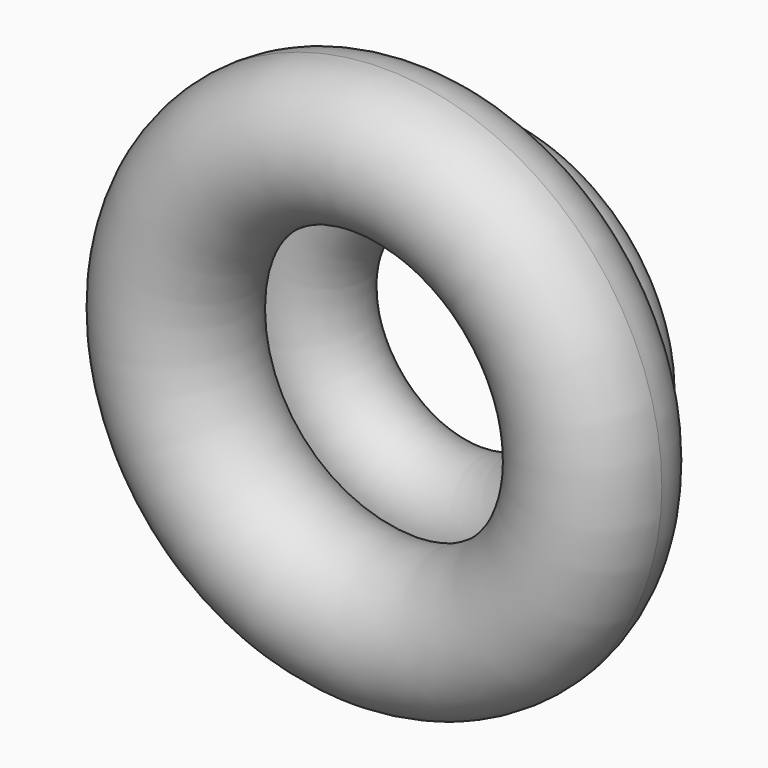
from build123d import *


with BuildPart() as f2:
    # F0 (on Top) → F2 (revolve)
    with BuildSketch(Plane.XY):
        with BuildLine():
            ThreePointArc((-20.473298, 15.033431), (-13.546266, 21.486244), (-4.737451, 24.954289))
            ThreePointArc((-4.737451, 24.954289), (-3.009793, 29.36081), (-2.421808, 34.057245))
            ThreePointArc((-2.421808, 34.057245), (-35.29071, 47.169851), (-20.473298, 15.033431))
        make_face()
        with BuildLine():
            ThreePointArc((-20.473298, 15.033431), (-11.312108, 17.942562), (-4.737451, 24.954289))
            ThreePointArc((-4.737451, 24.954289), (-13.546266, 21.486244), (-20.473298, 15.033431))
        make_face()
        with BuildLine():
            ThreePointArc((-20.473298, 15.033431), (-7.910064, -24.13692), (25.4, 0))
            ThreePointArc((25.4, 0), (16.199209, 19.563886), (-4.737451, 24.954289))
            ThreePointArc((-4.737451, 24.954289), (-11.312108, 17.942562), (-20.473298, 15.033431))
        make_face()
    revolve(axis=Axis((-75.836815, 13.886629, 0), (0, 1, 0)))


solid = f2.part
